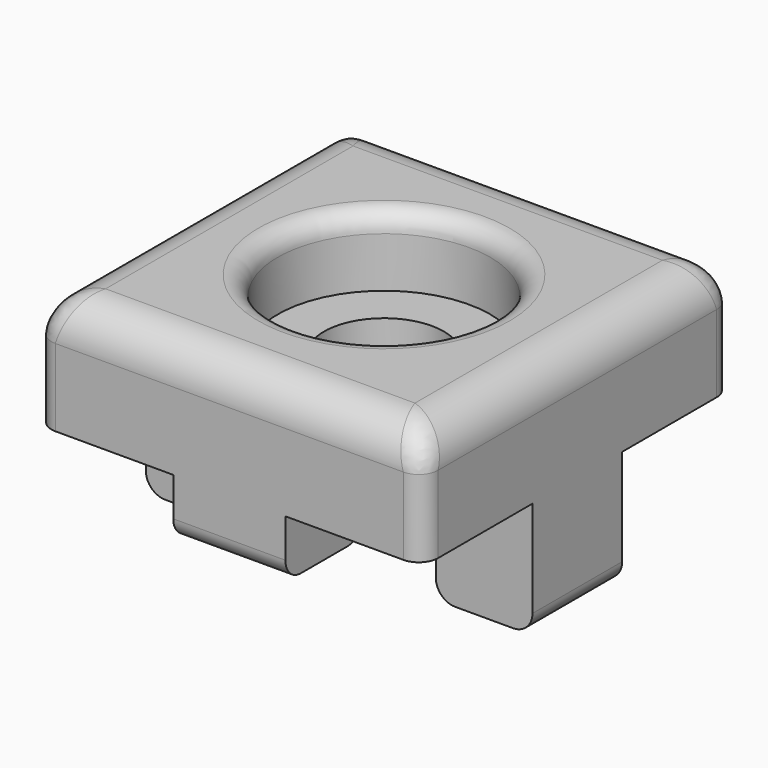
from build123d import *

# Parameters (mm, degrees)
SKETCH_W        = 20
SKETCH_H        = 20
PAD_DEPTH       = 6
SKETCH001_R     = 5.5
POCKET_DEPTH    = 3.6
SKETCH002_R     = 3.1
POCKET001_DEPTH = 5
SKETCH003_W     = 5.8
SKETCH003_H     = 5
PAD001_DEPTH    = 6
SKETCH004_W     = 5
SKETCH004_H     = 5.8
PAD002_DEPTH    = 6
SKETCH005_W     = 5.8
SKETCH005_H     = 5
PAD003_DEPTH    = 6
SKETCH006_W     = 5
SKETCH006_H     = 5.8
PAD004_DEPTH    = 6
SKETCH007_W     = 7.342915
SKETCH007_H     = 6.002037
POCKET002_DEPTH = 3
FILLET_R        = 1
FILLET001_R     = 1
FILLET002_R     = 2
FILLET003_R     = 1


with BuildPart() as part:
    # Sketch → Pad (new body)
    with BuildSketch(Plane.XY):
        with Locations((10, 10)):
            Rectangle(SKETCH_W, SKETCH_H)
    extrude(amount=PAD_DEPTH)

    # Sketch001 (on Face6 of Pad) → Pocket (cut)
    with BuildSketch(Plane.XY.offset(6)):
        with Locations((10, 10)):
            Circle(SKETCH001_R)
    extrude(amount=-POCKET_DEPTH, mode=Mode.SUBTRACT)

    # Sketch002 (on Face8 of Pocket) → Pocket001 (cut)
    with BuildSketch(Plane.XY.offset(2.4)):
        with Locations((10, 10)):
            Circle(SKETCH002_R)
    extrude(amount=-POCKET001_DEPTH, mode=Mode.SUBTRACT)

    # Sketch003 (on Face4 of Pocket001) → Pad001 (join)
    with BuildSketch(Plane(origin=(0, 0, 0), x_dir=(1, 0, 0), z_dir=(0, 0, -1))):
        with Locations((10, -2.5)):
            Rectangle(SKETCH003_W, SKETCH003_H)
    extrude(amount=PAD001_DEPTH)

    # Sketch004 (on Face4 of Pad001) → Pad002 (join)
    with BuildSketch(Plane(origin=(0, 0, 0), x_dir=(1, 0, 0), z_dir=(0, 0, -1))):
        with Locations((17.5, -10)):
            Rectangle(SKETCH004_W, SKETCH004_H)
    extrude(amount=PAD002_DEPTH)

    # Sketch005 (on Face4 of Pad002) → Pad003 (join)
    with BuildSketch(Plane(origin=(0, 0, 0), x_dir=(1, 0, 0), z_dir=(0, 0, -1))):
        with Locations((10, -17.5)):
            Rectangle(SKETCH005_W, SKETCH005_H)
    extrude(amount=PAD003_DEPTH)

    # Sketch006 (on Face4 of Pad003) → Pad004 (join)
    with BuildSketch(Plane(origin=(0, 0, 0), x_dir=(1, 0, 0), z_dir=(0, 0, -1))):
        with Locations((2.5, -10)):
            Rectangle(SKETCH006_W, SKETCH006_H)
    extrude(amount=PAD004_DEPTH)

    # Sketch007 → Pocket002 (cut)
    with BuildSketch(Plane(origin=(0, 0, -6), x_dir=(1, 0, 0), z_dir=(0, 0, -1))):
        with Locations((10.087635, -2.302989)):
            Rectangle(SKETCH007_W, SKETCH007_H)
    extrude(amount=-POCKET002_DEPTH, mode=Mode.SUBTRACT)

    # Fillet
    fillet_edges = [part.edges().sort_by_distance(p)[0] for p in [
        (10, 0, -3),
        (10, 5, -3),
        (5, 10, -6),
        (0, 10, -6),
        (10, 15, -6),
        (10, 20, -6),
        (15, 10, -6),
        (20, 10, -6),
    ]]
    fillet(fillet_edges, radius=FILLET_R)

    # Fillet001
    fillet001_edges = [part.edges().sort_by_distance(p)[0] for p in [
        (0, 20, 3),
        (20, 20, 3),
        (20, 0, 3),
        (0, 0, 3),
    ]]
    fillet(fillet001_edges, radius=FILLET001_R)

    # Fillet002
    fillet002_edges = [part.edges().sort_by_distance(p)[0] for p in [
        (10, 20, 6),
        (19.707107, 19.707107, 6),
        (20, 10, 6),
        (19.707107, 0.292893, 6),
        (10, 0, 6),
        (0.292893, 0.292893, 6),
        (0, 10, 6),
        (0.292893, 19.707107, 6),
    ]]
    fillet(fillet002_edges, radius=FILLET002_R)

    # Fillet003
    fillet003_edges = [part.edges().sort_by_distance(p)[0] for p in [
        (4.5, 10, 6),
    ]]
    fillet(fillet003_edges, radius=FILLET003_R)


solid = part.part
